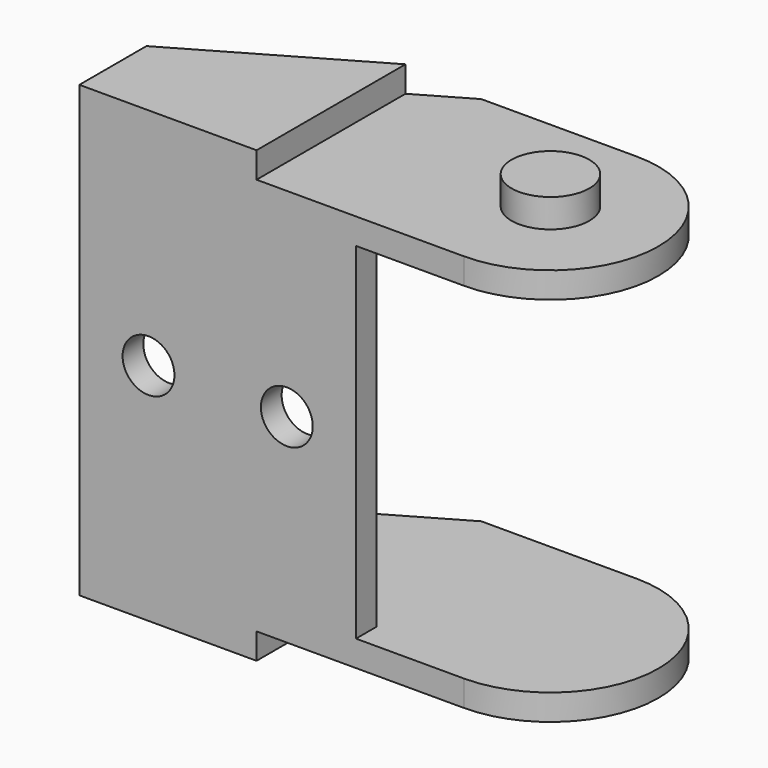
from build123d import *

# Parameters (mm, degrees)
PAD_DEPTH       = 26
SKETCH001_W     = 23.999948
SKETCH001_H     = 23.999948
POCKET_DEPTH    = 1.5
SKETCH002_W     = 23.999948
SKETCH002_H     = 23.999948
POCKET001_DEPTH = 1.5
SKETCH003_R     = 2.25
PAD001_DEPTH    = 1.65
SKETCH004_R     = 2.25
PAD002_DEPTH    = 1.65
SKETCH005_W     = 60
SKETCH005_H     = 20
POCKET002_DEPTH = 11
SKETCH006_R     = 1.5
SKETCH006_W     = 20
SKETCH006_H     = 20
POCKET003_DEPTH = 5


with BuildPart() as part:
    # Sketch → Pad (new body)
    with BuildSketch(Plane.XY):
        with BuildLine():
            ThreePointArc((2.6e-05, -6.25), (6.25, 1.3e-05), (0, 6.25))
            Line((0, 6.25), (-8.999786, 6.25))
            Line((-22.249974, -1.4), (-8.999786, 6.25))
            Line((-22.249974, -6.25), (-22.249974, -1.4))
            Line((2.6e-05, -6.25), (-22.249974, -6.25))
        make_face()
    extrude(amount=PAD_DEPTH)

    # Sketch001 → Pocket (cut)
    with BuildSketch(Plane.XY.offset(26)):
        Rectangle(SKETCH001_W, SKETCH001_H)
    extrude(amount=-POCKET_DEPTH, mode=Mode.SUBTRACT)

    # Sketch002 → Pocket001 (cut)
    with BuildSketch(Plane(origin=(0, 0, 0), x_dir=(1, 0, 0), z_dir=(0, 0, -1))):
        Rectangle(SKETCH002_W, SKETCH002_H)
    extrude(amount=-POCKET001_DEPTH, mode=Mode.SUBTRACT)

    # Sketch003 → Pad001 (new body)
    with BuildSketch(Plane.XY.offset(24.5)):
        Circle(SKETCH003_R)
    extrude(amount=PAD001_DEPTH)

    # Sketch004 → Pad002 (new body)
    with BuildSketch(Plane(origin=(0, 0, 1.5), x_dir=(1, 0, 0), z_dir=(0, 0, -1))):
        Circle(SKETCH004_R)
    extrude(amount=PAD002_DEPTH)

    # Sketch005 → Pocket002 (cut)
    with BuildSketch(Plane(origin=(0, 6.25, 0), x_dir=(-1, 0, 0), z_dir=(0, 1, 0))):
        with Locations((0, 13)):
            Rectangle(SKETCH005_W, SKETCH005_H)
    extrude(amount=-POCKET002_DEPTH, mode=Mode.SUBTRACT)

    # Sketch006 → Pocket003 (cut)
    with BuildSketch(Plane(origin=(0, -4.75, 0), x_dir=(-1, 0, 0), z_dir=(0, 1, 0))):
        with Locations((10.249974, 13)):
            Circle(SKETCH006_R)
        with Locations((18.249974, 13)):
            Circle(SKETCH006_R)
        with Locations((-3.750026, 13)):
            Rectangle(SKETCH006_W, SKETCH006_H)
    extrude(amount=-POCKET003_DEPTH, mode=Mode.SUBTRACT)


solid = part.part
